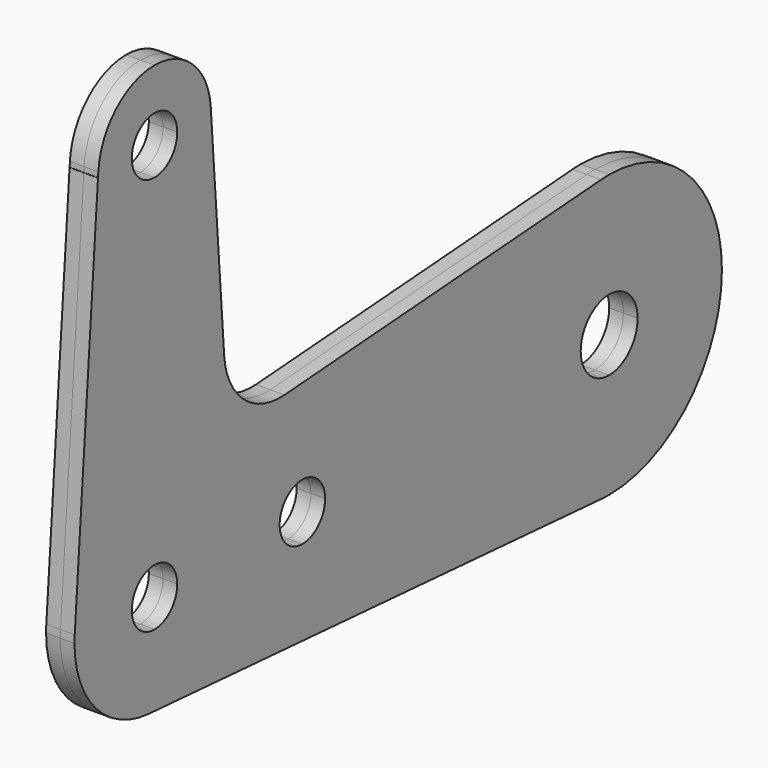
from build123d import *

# Parameters (mm, degrees)
F1_DEPTH = 1.5875


with BuildPart() as f1:
    # F0 (on Right) → F1 (new body, symmetric)
    with BuildSketch(Plane.YZ):
        with BuildLine():
            Line((0, 41.275), (0, 3.175))
            ThreePointArc((0, 3.175), (2.2450640303, 2.2450640303), (3.175, 0))
            Line((3.175, 0), (17.4752, 0))
            ThreePointArc((17.4752, 0), (18.4051359697, 2.2450640303), (20.6502, 3.175))
            ThreePointArc((20.6502, 3.175), (22.8952640303, 2.2450640303), (23.8252, 0))
            Line((23.8252, 0), (59.5249, 0))
            ThreePointArc((59.5249, 0), (60.6891798341, 2.8108201659), (63.5, 3.9751))
            Line((63.5, 3.9751), (63.5, 15.748))
            ThreePointArc((63.5, 15.748), (62.9327037949, 15.7377787192), (62.366144, 15.7071281452))
            Line((62.366144, 15.7071281452), (18.1523895677, 12.515454258))
            ThreePointArc((18.1523895677, 12.515454258), (12.4398582326, 14.4089308884), (9.7332174357, 19.7840926163))
            Line((9.7332174357, 19.7840926163), (7.895816146, 44.45))
            Line((7.895816146, 44.45), (7.874, 44.45))
            Line((7.874, 44.45), (3.175, 44.45))
            ThreePointArc((3.175, 44.45), (2.2450640303, 42.2049359697), (0, 41.275))
        make_face()
        with BuildLine():
            Line((67.4751, 0), (79.248, 0))
            ThreePointArc((79.248, 0), (74.6355175901, 11.1355175901), (63.5, 15.748))
            Line((63.5, 15.748), (63.5, 3.9751))
            ThreePointArc((63.5, 3.9751), (66.3108201659, 2.8108201659), (67.4751, 0))
        make_face()
        with BuildLine():
            Line((63.5, -3.9751), (63.5, -15.748))
            ThreePointArc((63.5, -15.748), (74.6355175901, -11.1355175901), (79.248, 0))
            Line((79.248, 0), (67.4751, 0))
            ThreePointArc((67.4751, 0), (66.3108201659, -2.8108201659), (63.5, -3.9751))
        make_face()
        with BuildLine():
            ThreePointArc((3.175, 0), (2.2450640303, -2.2450640303), (0, -3.175))
            Line((0, -3.175), (0, -11.2050813091))
            Line((0, -11.2050813091), (62.366144, -15.7071281452))
            ThreePointArc((62.366144, -15.7071281452), (62.9327037949, -15.7377787192), (63.5, -15.748))
            Line((63.5, -15.748), (63.5, -3.9751))
            ThreePointArc((63.5, -3.9751), (60.6891798341, -2.8108201659), (59.5249, 0))
            Line((59.5249, 0), (23.8252, 0))
            ThreePointArc((23.8252, 0), (22.8952640303, -2.2450640303), (20.6502, -3.175))
            ThreePointArc((20.6502, -3.175), (18.4051359697, -2.2450640303), (17.4752, 0))
            Line((17.4752, 0), (3.175, 0))
        make_face()
        with BuildLine():
            ThreePointArc((-11.1451207035, 0.8302171429), (-11.1682775078, 0.4153956052), (-11.176, 0))
            Line((-11.176, 0), (-3.175, 0))
            ThreePointArc((-3.175, 0), (-2.2450640303, 2.2450640303), (0, 3.175))
            Line((0, 3.175), (0, 41.275))
            ThreePointArc((0, 41.275), (-2.2450640303, 42.2049359697), (-3.175, 44.45))
            Line((-3.175, 44.45), (-7.874, 44.45))
            Line((-7.874, 44.45), (-7.895816146, 44.45))
            Line((-7.895816146, 44.45), (-11.1451207035, 0.8302171429))
        make_face()
        with BuildLine():
            Line((-3.175, 0), (-11.176, 0))
            ThreePointArc((-11.176, 0), (-8.1821754525, -7.612816881), (-0.804672, -11.1469941676))
            Line((-0.804672, -11.1469941676), (0, -11.2050813091))
            Line((0, -11.2050813091), (0, -3.175))
            ThreePointArc((0, -3.175), (-2.2450640303, -2.2450640303), (-3.175, 0))
        make_face()
        with BuildLine():
            ThreePointArc((0, 47.625), (2.2450640303, 46.6950640303), (3.175, 44.45))
            Line((3.175, 44.45), (7.874, 44.45))
            ThreePointArc((7.874, 44.45), (7.8685591532, 44.7426650855), (7.852244132, 45.0349257143))
            ThreePointArc((7.852244132, 45.0349257143), (5.3569660689, 50.220857002), (0, 52.324))
            Line((0, 52.324), (0, 47.625))
        make_face()
        with BuildLine():
            ThreePointArc((-7.852244132, 45.0349257143), (-7.8685591532, 44.7426650855), (-7.874, 44.45))
            Line((-7.874, 44.45), (-3.175, 44.45))
            ThreePointArc((-3.175, 44.45), (-2.2450640303, 46.6950640303), (0, 47.625))
            Line((0, 47.625), (0, 52.324))
            ThreePointArc((0, 52.324), (-5.3569660689, 50.220857002), (-7.852244132, 45.0349257143))
        make_face()
    extrude(amount=F1_DEPTH, both=True)


solid = f1.part
